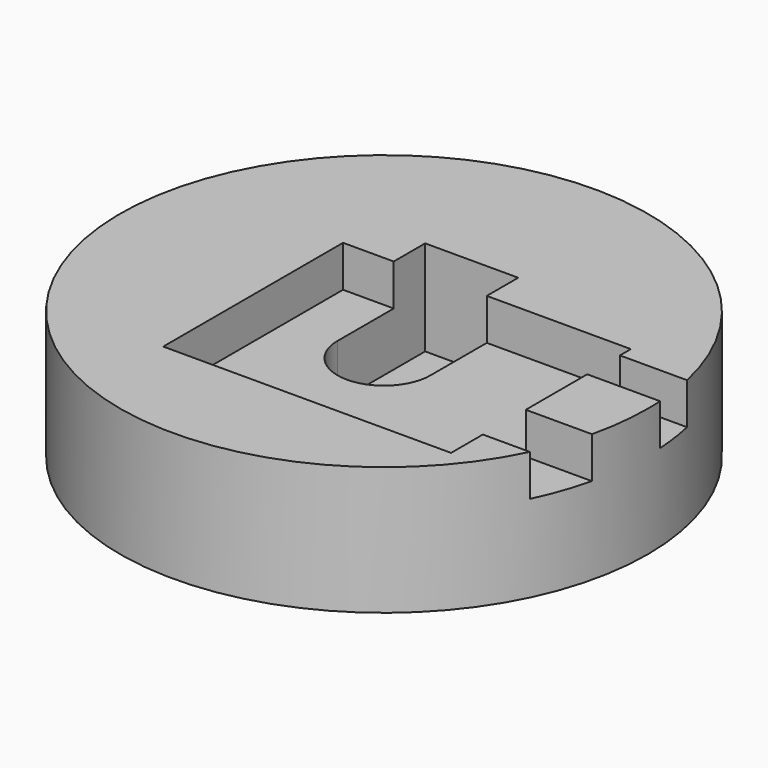
from build123d import *

# Parameters (mm, degrees)
SKETCH_R        = 63.794686
PAD_DEPTH       = 31
POCKET_DEPTH    = 10
POCKET001_DEPTH = 23
SKETCH003_R     = 5.75
POCKET002_DEPTH = 31.001


with BuildPart() as part:
    # Sketch → Pad (new body)
    with BuildSketch(Plane.XY):
        with Locations((5.42, -16.5)):
            Circle(SKETCH_R)
    extrude(amount=PAD_DEPTH)

    # Sketch001 (on Face6 of Pad) → Pocket (cut)
    with BuildSketch(Plane.XY.offset(31)):
        Polygon((-18.08, 0.5), (51.5, 0.5), (51.5, -2.802), (101.5, -2.802), (101.5, -12.692), (51.5, -12.692), (51.5, -31.25), (101.5, -31.25), (101.5, -44.2261), (51.5, -44.2261), (51.5, -53.84), (-18.08, -53.84), align=None)
    extrude(amount=-POCKET_DEPTH, mode=Mode.SUBTRACT)

    # Sketch002 (on Face7 of Pocket) → Pocket001 (cut)
    with BuildSketch(Plane.XY.offset(31)):
        with BuildLine():
            ThreePointArc((-5.83, -16.5), (5.42, -27.75), (16.67, -16.5))
            Line((16.67, -16.5), (16.67, 0))
            Line((16.67, 10), (16.67, 0))
            Line((-5.83, 10), (16.67, 10))
            Line((-5.83, 0), (-5.83, 10))
            Line((-5.83, -16.5), (-5.83, 0))
        make_face()
    extrude(amount=-POCKET001_DEPTH, mode=Mode.SUBTRACT)

    # Sketch003 (on Face7 of Pocket001) → Pocket002 (cut, through all)
    with BuildSketch(Plane.XY.offset(31)):
        with Locations((5.42, -16.5)):
            Circle(SKETCH003_R)
    extrude(amount=-POCKET002_DEPTH, mode=Mode.SUBTRACT)


solid = part.part
